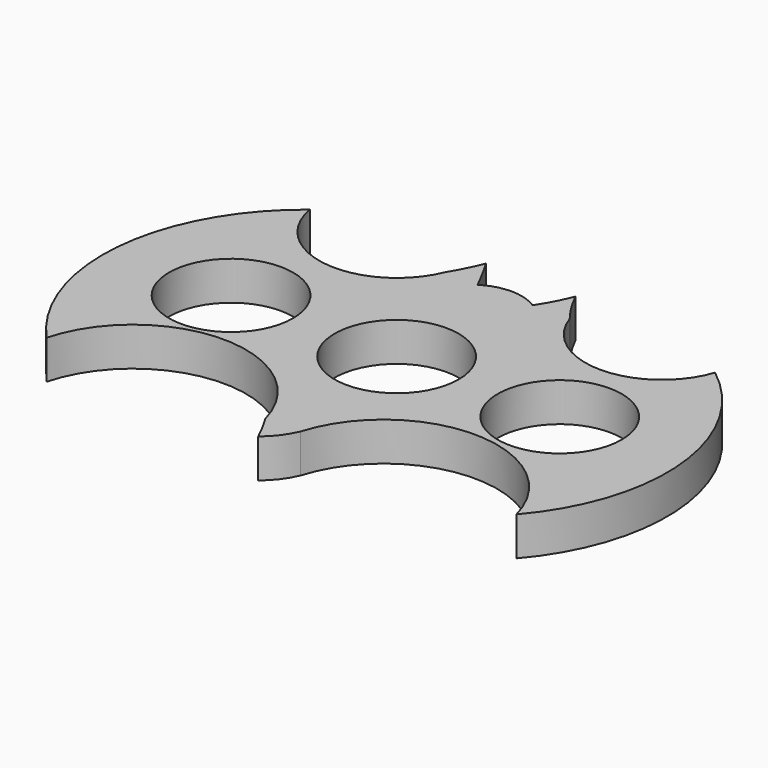
from build123d import *

# Parameters (mm, degrees)
F0_R     = 11.2
F1_DEPTH = 7


with BuildPart() as f1:
    # F0 (on Top) → F1 (new body)
    with BuildSketch(Plane.XY):
        with BuildLine():
            ThreePointArc((8.240147, 30.067429), (6.866912, 27.06343), (5.181388, 24.222868))
            ThreePointArc((5.181388, 24.222868), (0.207873, 25.676892), (-4.767502, 24.229247))
            ThreePointArc((-4.767502, 24.229247), (-6.292223, 27.177173), (-7.92362, 30.067429))
            ThreePointArc((-7.92362, 30.067429), (-9.185432, 27.211279), (-10.703697, 24.482794))
            ThreePointArc((-10.703697, 24.482794), (-25.246481, 15.775702), (-37.585229, 27.39729))
            ThreePointArc((-37.585229, 27.39729), (-51.669663, 1.525756), (-42.13335, -26.344771))
            ThreePointArc((-42.13335, -26.344771), (-22.374586, -11.140528), (-2.615823, -26.344771))
            ThreePointArc((-2.615823, -26.344771), (-1.24416, -28.764497), (0, -31.252187))
            ThreePointArc((0, -31.252187), (2.156013, -29.023753), (3.717219, -26.344771))
            ThreePointArc((3.717219, -26.344771), (23.788388, -11.684016), (43.300309, -27.08124))
            ThreePointArc((43.300309, -27.08124), (51.758021, -0.317886), (38.135927, 24.222868))
            ThreePointArc((38.135927, 24.222868), (25.003657, 14.798325), (11.871386, 24.222868))
            ThreePointArc((11.871386, 24.222868), (9.898578, 27.047487), (8.240147, 30.067429))
        make_face()
        with Locations((-29.902693, 0)):
            Circle(F0_R, mode=Mode.SUBTRACT)
        Circle(F0_R, mode=Mode.SUBTRACT)
        with Locations((29.456783, 0)):
            Circle(F0_R, mode=Mode.SUBTRACT)
    extrude(amount=F1_DEPTH)


solid = f1.part
